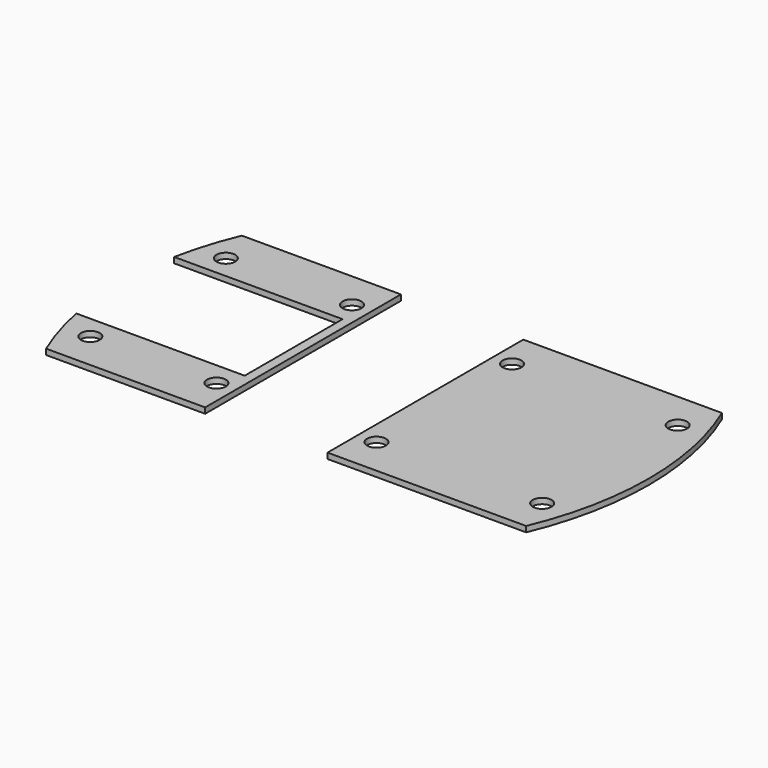
from build123d import *

# Parameters (mm, degrees)
F0_R     = 5
F1_DEPTH = 3


with BuildPart() as f1:
    # F0 (on Top) → F1 (new body)
    with BuildSketch(Plane.XY):
        with BuildLine():
            Line((127.5, 65), (127.5, -65))
            ThreePointArc((127.5, -65), (140.668924, 0), (127.5, 65))
        make_face()
        with BuildLine():
            Line((-127.5, -65), (-43, -65))
            Line((-43, -65), (-43, 65))
            Line((-43, 65), (-85.25, 65))
            Line((-85.25, 65), (-127.5, 65))
            ThreePointArc((-127.5, 65), (-133.317154, 49.004515), (-137.475975, 32.5))
            Line((-137.475975, 32.5), (-48, 32.5))
            Line((-48, 32.5), (-48, -32.5))
            Line((-48, -32.5), (-137.475975, -32.5))
            ThreePointArc((-137.475975, -32.5), (-133.317154, -49.004515), (-127.5, -65))
        make_face()
        with Locations((-120, -45)):
            Circle(F0_R, mode=Mode.SUBTRACT)
        with Locations((-53, -45)):
            Circle(F0_R, mode=Mode.SUBTRACT)
        with Locations((-120, 45)):
            Circle(F0_R, mode=Mode.SUBTRACT)
        with Locations((-53, 45)):
            Circle(F0_R, mode=Mode.SUBTRACT)
        Polygon((22, -65), (127.5, -65), (127.5, 65), (74.75, 65), (22, 65), align=None)
        with Locations((32, -45)):
            Circle(F0_R, mode=Mode.SUBTRACT)
        with Locations((120, -45)):
            Circle(F0_R, mode=Mode.SUBTRACT)
        with Locations((32, 45)):
            Circle(F0_R, mode=Mode.SUBTRACT)
        with Locations((120, 45)):
            Circle(F0_R, mode=Mode.SUBTRACT)
    extrude(amount=F1_DEPTH)


solid = f1.part
